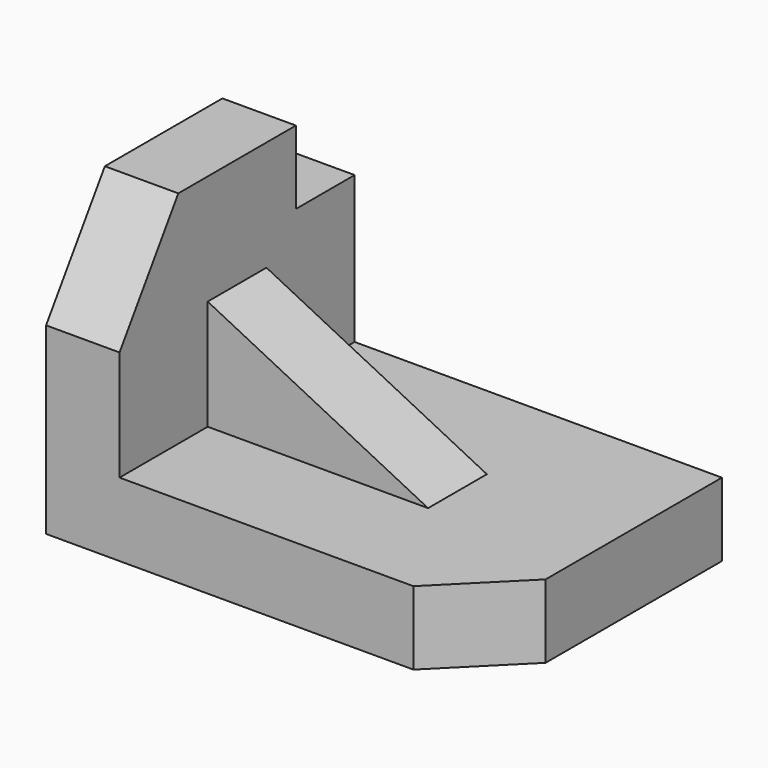
from build123d import *

# Parameters (mm, degrees)
F0_W      = 60
F0_H      = 40
F1_DEPTH  = 40
F2_W      = 60
F2_H      = 40
F3_DEPTH  = 40.001
F5_DEPTH  = 10.001
F6_W      = 20
F6_H      = 20
F7_DEPTH  = 10.001
F9_DEPTH  = 10.001
F12_DEPTH = 10


with BuildPart() as f1:
    # F0 (on Front) → F1 (new body)
    with BuildSketch(Plane.XZ):
        with Locations((30, 20)):
            Rectangle(F0_W, F0_H)
    extrude(amount=-F1_DEPTH)

    # F2 (on face) → F3 (cut, through all)
    with BuildSketch(Plane.XZ):
        with Locations((40, 30)):
            Rectangle(F2_W, F2_H)
    extrude(amount=-F3_DEPTH, mode=Mode.SUBTRACT)

    # F4 (on face) → F5 (cut, through all)
    with BuildSketch(Plane.YZ.offset(10)):
        Polygon((-10, 25), (0, 25), (10, 40), (10, 50), (-10, 50), align=None)
    extrude(amount=-F5_DEPTH, mode=Mode.SUBTRACT)

    # F6 (on face) → F7 (cut, through all)
    with BuildSketch(Plane.YZ.offset(10)):
        with Locations((40, 40)):
            Rectangle(F6_W, F6_H)
    extrude(amount=-F7_DEPTH, mode=Mode.SUBTRACT)

    # F8 (on face) → F9 (cut, through all)
    with BuildSketch(Plane.XY.offset(10)):
        Polygon((60, 10), (50, 0), (50, -10), (70, -10), (70, 10), align=None)
    extrude(amount=-F9_DEPTH, mode=Mode.SUBTRACT)

    # F11 (on offset) → F12 (join)
    with BuildSketch(Plane.XZ.offset(-25)):
        Polygon((40, 10), (10, 25), (5, 25), (5, 5), (40, 5), align=None)
    extrude(amount=F12_DEPTH)


solid = f1.part
